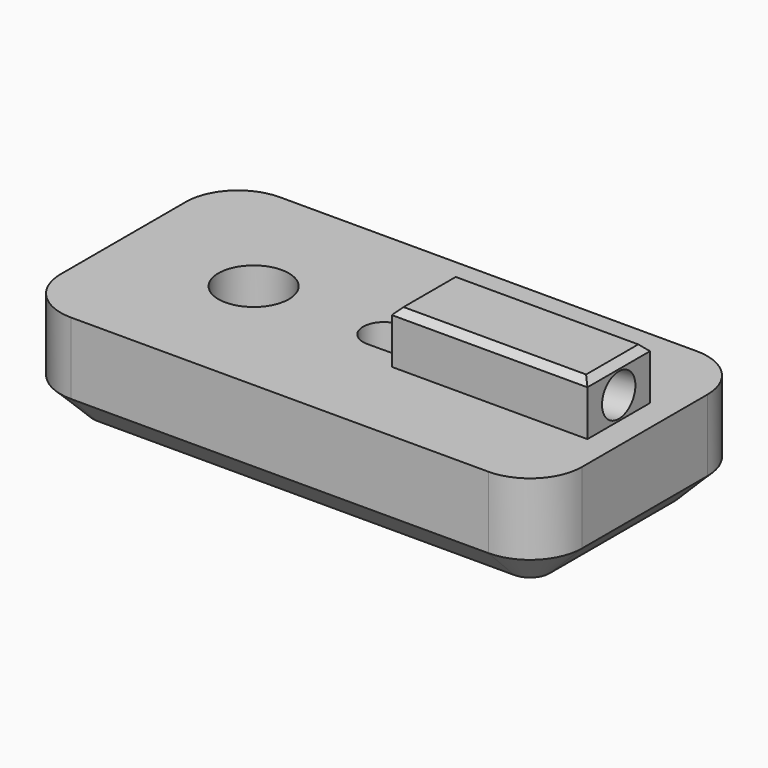
from build123d import *

# Parameters (mm, degrees)
SKETCH_R        = 2.7
SKETCH_R_2      = 1.6
PAD_DEPTH       = 8
SKETCH001_W     = 15
SKETCH001_H     = 6
PAD001_DEPTH    = 4
SKETCH002_W     = 5.4
SKETCH002_H     = 5.4
POCKET_DEPTH    = 4.4
POCKET001_DEPTH = 4.2
SKETCH004_R     = 4.8
POCKET002_DEPTH = 4
CHAMFER_SIZE    = 0.5
CHAMFER001_SIZE = 2.5
SKETCH005_R     = 1.6
POCKET003_DEPTH = 19
FILLET_R        = 1
POCKET004_DEPTH = 1
POCKET005_DEPTH = 1


with BuildPart() as obj1:
    # Sketch → Pad (new body)
    with BuildSketch(Plane.XY):
        with BuildLine():
            Line((4, 0), (36, 0))
            ThreePointArc((36, 0), (38.828427, 1.171573), (40, 4))
            Line((40, 4), (40, 16))
            ThreePointArc((40, 16), (38.828427, 18.828427), (36, 20))
            Line((36, 20), (4, 20))
            ThreePointArc((4, 20), (1.171573, 18.828427), (0, 16))
            Line((0, 16), (0, 4))
            ThreePointArc((0, 4), (1.171573, 1.171573), (4, 0))
        make_face()
        with Locations((10, 10)):
            Circle(SKETCH_R, mode=Mode.SUBTRACT)
        with Locations((20, 10)):
            Circle(SKETCH_R_2, mode=Mode.SUBTRACT)
    extrude(amount=PAD_DEPTH)

    # Sketch001 (on Face12 of Pad) → Pad001 (join)
    with BuildSketch(Plane.XY.offset(8)):
        with Locations((30.5, 10)):
            Rectangle(SKETCH001_W, SKETCH001_H)
    extrude(amount=PAD001_DEPTH)

    # Sketch002 (on Face4 of Pad001) → Pocket (cut)
    with BuildSketch(Plane(origin=(0, 0, 0), x_dir=(1, 0, 0), z_dir=(0, 0, -1))):
        with Locations((10, -10)):
            Rectangle(SKETCH002_W, SKETCH002_H)
    extrude(amount=-POCKET_DEPTH, mode=Mode.SUBTRACT)

    # Sketch003 (on Face4 of Pocket) → Pocket001 (cut)
    with BuildSketch(Plane(origin=(0, 0, 0), x_dir=(1, 0, 0), z_dir=(0, 0, -1))):
        with BuildLine():
            ThreePointArc((6.031373, -7.3), (5.2, -10), (6.031373, -12.7))
            Line((7.3, -12.7), (6.031373, -12.7))
            Line((7.3, -12.7), (7.3, -7.3))
            Line((7.3, -7.3), (6.031373, -7.3))
        make_face()
        with BuildLine():
            ThreePointArc((13.968627, -12.7), (14.8, -10), (13.968627, -7.3))
            Line((13.968627, -7.3), (12.7, -7.3))
            Line((12.7, -7.3), (12.7, -12.7))
            Line((12.7, -12.7), (13.968627, -12.7))
        make_face()
    extrude(amount=-POCKET001_DEPTH, mode=Mode.SUBTRACT)

    # Sketch004 (on Face4 of Pocket001) → Pocket002 (cut)
    with BuildSketch(Plane(origin=(0, 0, 0), x_dir=(1, 0, 0), z_dir=(0, 0, -1))):
        with Locations((10, -10)):
            Circle(SKETCH004_R)
    extrude(amount=-POCKET002_DEPTH, mode=Mode.SUBTRACT)

    # Chamfer
    chamfer_edges = [obj1.edges().sort_by_distance(p)[0] for p in [
        (30.5, 7, 12),
        (38, 10, 12),
        (30.5, 13, 12),
        (23, 10, 12),
    ]]
    chamfer(chamfer_edges, length=CHAMFER_SIZE)

    # Chamfer001
    chamfer001_edges = [obj1.edges().sort_by_distance(p)[0] for p in [
        (20, 0, 0),
    ]]
    chamfer(chamfer001_edges, length=CHAMFER001_SIZE)

    # Sketch005 (on DatumPlane) → Pocket003 (cut)
    with BuildSketch(Plane(origin=(40, 0, 0), x_dir=(0, 1, 0), z_dir=(0.995396, 0, 0.095846))):
        with Locations((10, 9.9)):
            Circle(SKETCH005_R)
    extrude(amount=-POCKET003_DEPTH, mode=Mode.SUBTRACT)

    # Fillet
    fillet_edges = [obj1.edges().sort_by_distance(p)[0] for p in [
        (21.109673, 11.15266, 7.012051),
    ]]
    fillet(fillet_edges, radius=FILLET_R)


with BuildPart() as obj2:
    # Body001 base: copy of obj1
    add(obj1.part)

    # Sketch006 (on Face3 of Fillet) → Pocket004 (cut)
    with BuildSketch(Plane.XY):
        Polygon((35, 10), (32.113249, 15), (30.113249, 15), (33, 10), align=None)
        Polygon((33.886751, 5), (28.113249, 15), (26.113249, 15), (31.886751, 5), align=None)
        Polygon((29.886751, 5), (27, 10), (25, 10), (27.886751, 5), align=None)
    extrude(amount=POCKET004_DEPTH, mode=Mode.SUBTRACT)


with BuildPart() as obj3:
    # Body002 base: copy of obj1
    add(obj1.part)

    # Sketch007 (on Face3 of Clone001) → Pocket005 (cut)
    with BuildSketch(Plane.XY):
        Polygon((35, 11.886748), (35, 13.886748), (25, 8.113252), (25, 6.113252), align=None)
        Polygon((35, 9.886748), (30, 7), (30, 5), (35, 7.886748), align=None)
        Polygon((30, 15), (25, 12.113252), (25, 10.113252), (30, 13), align=None)
    extrude(amount=POCKET005_DEPTH, mode=Mode.SUBTRACT)


solid = Compound([obj2.part, obj3.part])
